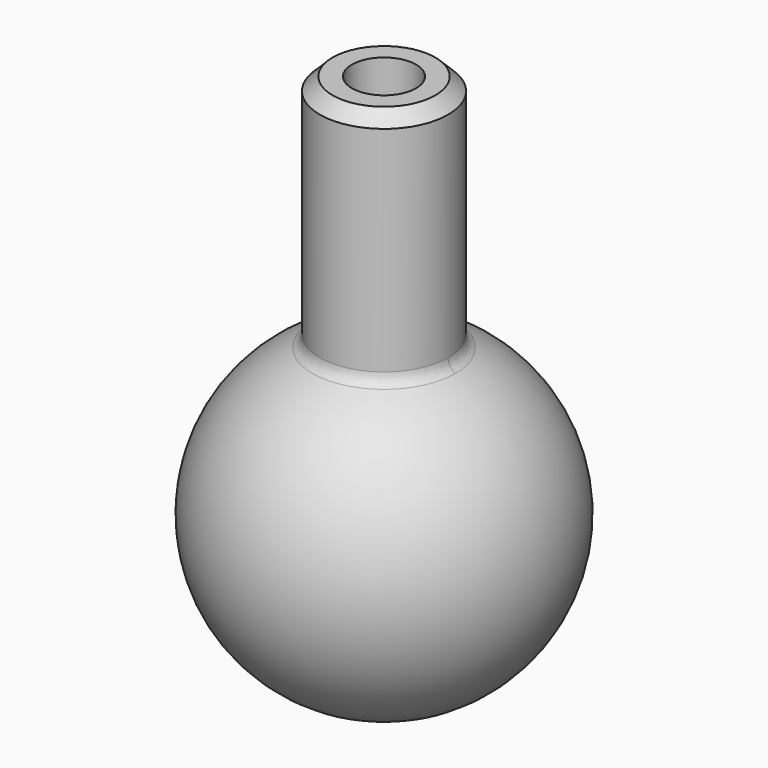
from build123d import *

# Parameters (mm, degrees)
F2_W    = 2.5
F2_H    = 30
F4_SIZE = 1
F5_R    = 1


with BuildPart() as f1:
    # F0 (on Front) → F1 (revolve)
    with BuildSketch(Plane.XZ):
        with BuildLine():
            Line((0, 12.7), (0, -12.7))
            ThreePointArc((0, -12.7), (12.7, 0), (0, 12.7))
        make_face()
    revolve(axis=Axis((0, 0, 15.411814), (0, 0, 1)))

    # F2 (on Front) → F3 (revolve)
    with BuildSketch(Plane.XZ):
        with Locations((-3.75, 15)):
            Rectangle(F2_W, F2_H)
    revolve(axis=Axis((0, 0, 22.430043), (0, 0, 1)))

    # F4
    f4_edges = [f1.edges().sort_by_distance(p)[0] for p in [
        (5, 0, 30),
    ]]
    chamfer(f4_edges, length=F4_SIZE)

    # F5
    f5_edges = [f1.edges().sort_by_distance(p)[0] for p in [
        (0, 5, 11.674331),
        (0, -5, 11.674331),
    ]]
    fillet(f5_edges, radius=F5_R)


solid = f1.part
